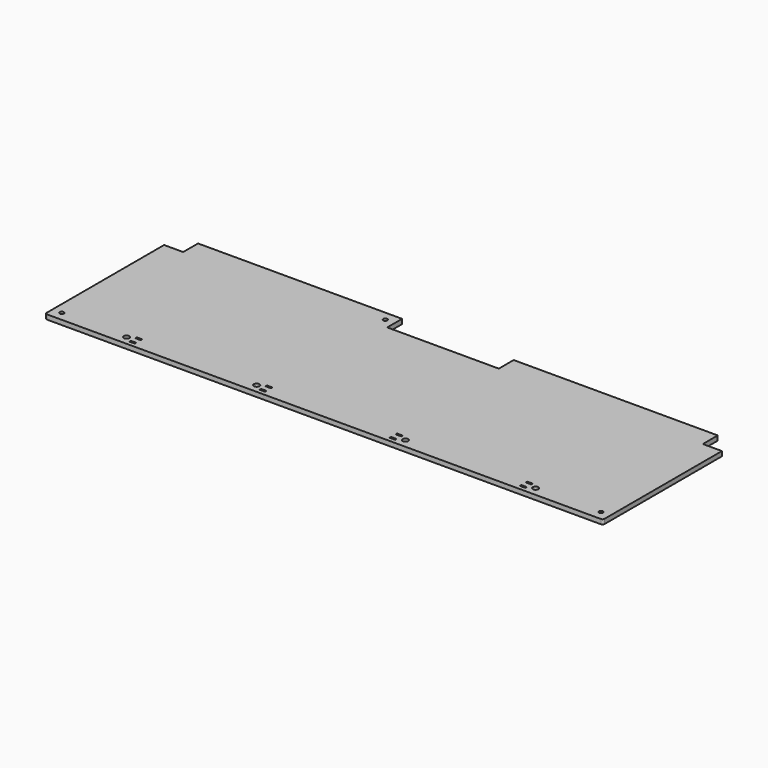
from build123d import *

# Parameters (mm, degrees)
F0_R     = 2.25
F0_W     = 6
F0_H     = 2
F0_R_2   = 3
F1_DEPTH = 5


with BuildPart() as f1:
    # F0 (on Top) → F1 (new body)
    with BuildSketch(Plane.XY):
        with BuildLine():
            ThreePointArc((-150, -7.5), (-149.414214, -8.914214), (-148, -9.5))
            Line((-148, -9.5), (448, -9.5))
            ThreePointArc((448, -9.5), (449.414214, -8.914214), (450, -7.5))
            Line((450, -7.5), (450, 150.5))
            Line((450, 150.5), (429.5, 150.5))
            Line((429.5, 150.5), (429.5, 170.5))
            Line((429.5, 170.5), (210, 170.5))
            Line((210, 170.5), (210, 150.5))
            Line((210, 150.5), (90, 150.5))
            Line((90, 150.5), (90, 170.5))
            Line((90, 170.5), (-129.5, 170.5))
            Line((-129.5, 170.5), (-129.5, 150.5))
            Line((-129.5, 150.5), (-150, 150.5))
            Line((-150, 150.5), (-150, -7.5))
        make_face()
        with Locations((-140, 0.5)):
            Circle(F0_R, mode=Mode.SUBTRACT)
        with Locations((-60, -4)):
            Rectangle(F0_W, F0_H, mode=Mode.SUBTRACT)
        with Locations((-70, 0)):
            Circle(F0_R_2, mode=Mode.SUBTRACT)
        with Locations((-60, 4)):
            Rectangle(F0_W, F0_H, mode=Mode.SUBTRACT)
        with Locations((70, 0)):
            Circle(F0_R_2, mode=Mode.SUBTRACT)
        with Locations((80, -4)):
            Rectangle(F0_W, F0_H, mode=Mode.SUBTRACT)
        with Locations((80, 4)):
            Rectangle(F0_W, F0_H, mode=Mode.SUBTRACT)
        with Locations((220, -4)):
            Rectangle(F0_W, F0_H, mode=Mode.SUBTRACT)
        with Locations((220, 4)):
            Rectangle(F0_W, F0_H, mode=Mode.SUBTRACT)
        with Locations((230, 0)):
            Circle(F0_R_2, mode=Mode.SUBTRACT)
        with Locations((360, -4)):
            Rectangle(F0_W, F0_H, mode=Mode.SUBTRACT)
        with Locations((370, 0)):
            Circle(F0_R_2, mode=Mode.SUBTRACT)
        with Locations((360, 4)):
            Rectangle(F0_W, F0_H, mode=Mode.SUBTRACT)
        with Locations((440, 0.5)):
            Circle(F0_R, mode=Mode.SUBTRACT)
        with Locations((80, 160.5)):
            Circle(F0_R, mode=Mode.SUBTRACT)
    extrude(amount=F1_DEPTH)


solid = f1.part
